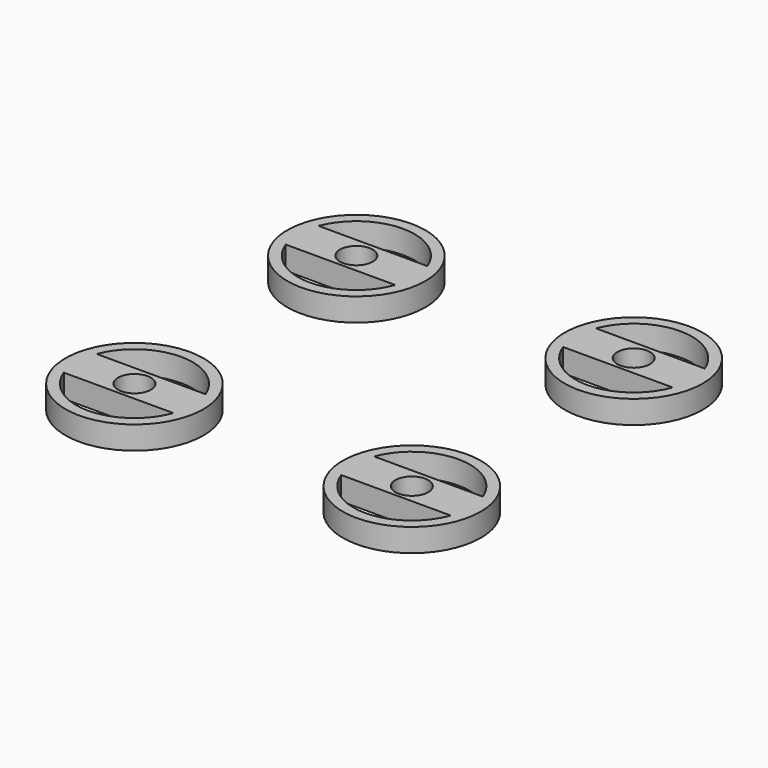
from build123d import *

# Parameters (mm, degrees)
F0_R     = 18.96001
F1_DEPTH = 6.35
F2_R     = 16.005895
F3_DEPTH = 25.4
F4_W     = 35.509916
F4_H     = 11.155411
F5_DEPTH = 6.35
F6_R     = 4.508763
F7_DEPTH = 6.35


with BuildPart() as f1:
    # F0 (on Top) → F1 (new body)
    with BuildSketch(Plane.XY):
        with Locations((-43.119196, 40.67139)):
            Circle(F0_R)
    extrude(amount=F1_DEPTH)

    # F2 (on face) → F3 (cut)
    with BuildSketch(Plane.XY.offset(6.35)):
        with Locations((-43.119196, 40.67139)):
            Circle(F2_R)
    extrude(amount=-F3_DEPTH, mode=Mode.SUBTRACT)

    # F4 (on face) → F5 (join)
    with BuildSketch(Plane.XY.offset(6.35)):
        with Locations((-42.930297, 40.806793)):
            Rectangle(F4_W, F4_H)
    extrude(amount=-F5_DEPTH)

    # F6 (on face) → F7 (cut)
    with BuildSketch(Plane.XY.offset(6.35)):
        with Locations((-43.119196, 40.67139)):
            Circle(F6_R)
    extrude(amount=-F7_DEPTH, mode=Mode.SUBTRACT)


with BuildPart() as f8_1:
    # F8: copy of F1
    add(f1.part.moved(Location((76.2, 0, 0))))


with BuildPart() as f9_1:
    # F9: copy of F8_1
    add(f8_1.part.moved(Location((0, -76.2, 0))))


with BuildPart() as f10_1:
    # F10: copy of F9_1
    add(f9_1.part.moved(Location((-76.2, 0, 0))))


solid = Compound([f1.part, f8_1.part, f9_1.part, f10_1.part])
